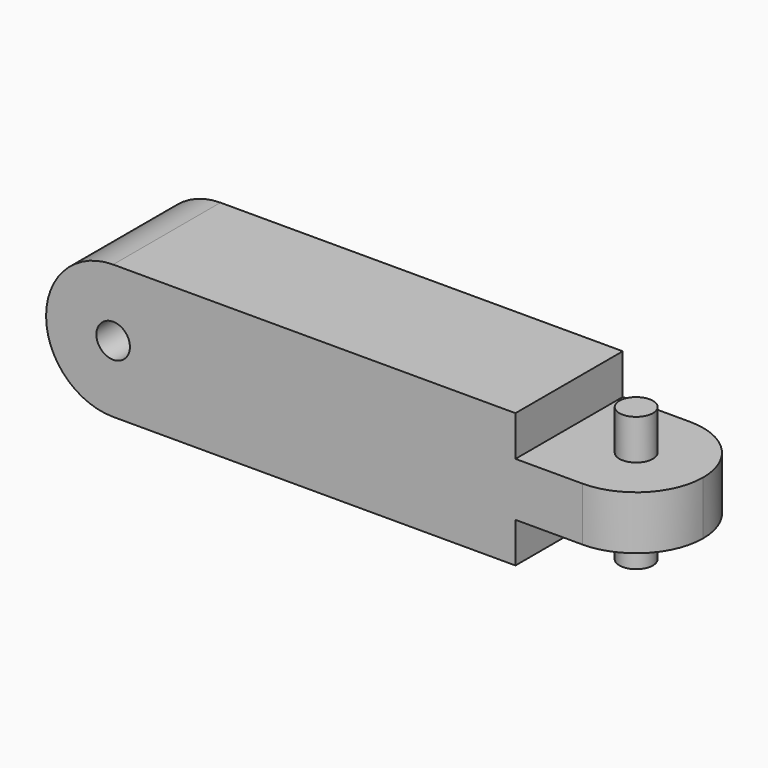
from build123d import *

# Parameters (mm, degrees)
F0_R     = 3.175
F1_DEPTH = 25.4
F2_W     = 25.4
F2_H     = 10.16
F3_DEPTH = 25.4
F5_DEPTH = 25.4
F4_R     = 3.175
F6_DEPTH = 7.62
F7_DEPTH = 25.4


with BuildPart() as f1:
    # F0 (on Front) → F1 (new body)
    with BuildSketch(Plane.XZ):
        with BuildLine():
            Line((38.1, 12.7), (-38.1, 12.7))
            ThreePointArc((-38.1, 12.7), (-50.8, 0), (-38.1, -12.7))
            Line((-38.1, -12.7), (38.1, -12.7))
            Line((38.1, -12.7), (38.1, 12.7))
        make_face()
        with Locations((-38.1, 0)):
            Circle(F0_R, mode=Mode.SUBTRACT)
    extrude(amount=F1_DEPTH)

    # F2 (on face) → F3 (join)
    with BuildSketch(Plane.YZ.offset(38.1)):
        with Locations((-12.7, 0)):
            Rectangle(F2_W, F2_H)
    extrude(amount=F3_DEPTH)

    # F4 (on face) → F5 (cut)
    with BuildSketch(Plane.XY.offset(5.08)):
        with BuildLine():
            ThreePointArc((50.8, 0), (59.7802561211, -3.7197438789), (63.5, -12.7))
            Line((63.5, -12.7), (63.5, 0))
            Line((63.5, 0), (50.8, 0))
        make_face()
        with BuildLine():
            Line((63.5, -25.4), (63.5, -12.7))
            ThreePointArc((63.5, -12.7), (59.7802561211, -21.6802561211), (50.8, -25.4))
            Line((50.8, -25.4), (63.5, -25.4))
        make_face()
    extrude(amount=-F5_DEPTH, mode=Mode.SUBTRACT)

    # F4 (on face) → F6 (join)
    with BuildSketch(Plane.XY.offset(5.08)):
        with Locations((50.8, -12.7)):
            Circle(F4_R)
    extrude(amount=F6_DEPTH)

    # F7 (add): a face of the model
    f7_faces = [f1.faces().sort_by_distance(p)[0] for p in [
        (50.8, -12.7, 12.7),
    ]]
    extrude(f7_faces, amount=-F7_DEPTH)


solid = f1.part
